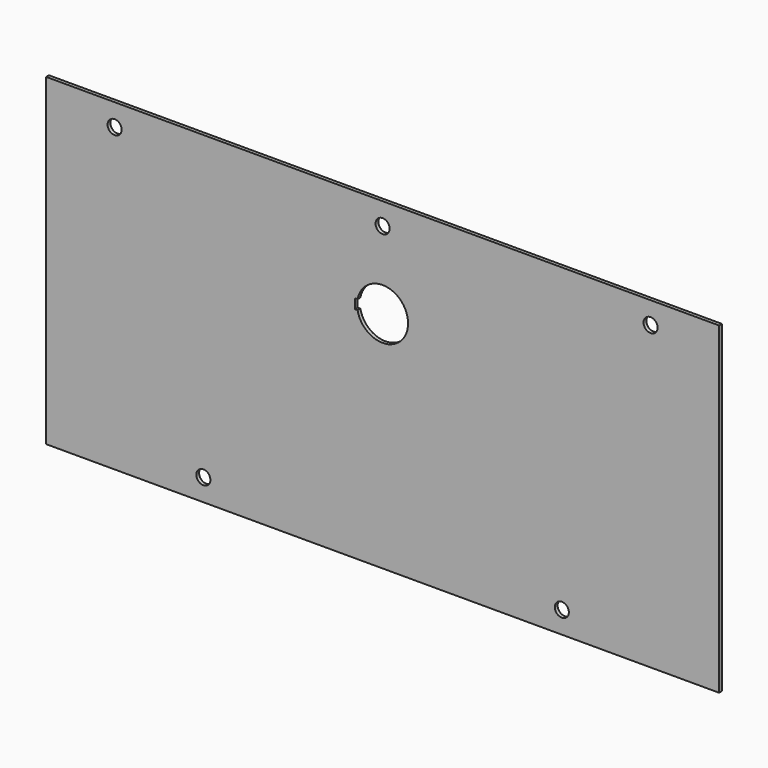
from build123d import *

# Parameters (mm, degrees)
F1_W     = 383
F1_H     = 184
F1_R     = 4
F3_DEPTH = 2
F4_DEPTH = 2.001


with BuildPart() as f3:
    # F1 (on face) + F0 (on Front) → F3 (new body)
    with BuildSketch(Plane.XZ):
        Rectangle(F1_W, F1_H)
        with Locations((-102, -79.5)):
            Circle(F1_R, mode=Mode.SUBTRACT)
        with Locations((102, -79.5)):
            Circle(F1_R, mode=Mode.SUBTRACT)
        Polygon((175, -62), (-175, -62), (-162.5, 58), (162.5, 58), align=None, mode=Mode.SUBTRACT)
        with Locations((-152.5, 79.5)):
            Circle(F1_R, mode=Mode.SUBTRACT)
        with Locations((0, 79.5)):
            Circle(F1_R, mode=Mode.SUBTRACT)
        with Locations((152.5, 79.5)):
            Circle(F1_R, mode=Mode.SUBTRACT)
    with BuildSketch(Plane.XZ):
        Polygon((162.5, 58), (-162.5, 58), (-175, -62), (175, -62), align=None)
    extrude(amount=F3_DEPTH)

    # F2 (on Front) → F4 (cut, through all)
    with BuildSketch(Plane.XZ):
        with BuildLine():
            Line((-15.8, 32.75), (-14.236836, 32.75))
            ThreePointArc((-14.236836, 32.75), (14.5, 35.5), (-14.236836, 38.25))
            Line((-14.236836, 38.25), (-15.8, 38.25))
            Line((-15.8, 38.25), (-15.8, 32.75))
        make_face()
    extrude(amount=F4_DEPTH, mode=Mode.SUBTRACT)


solid = f3.part
